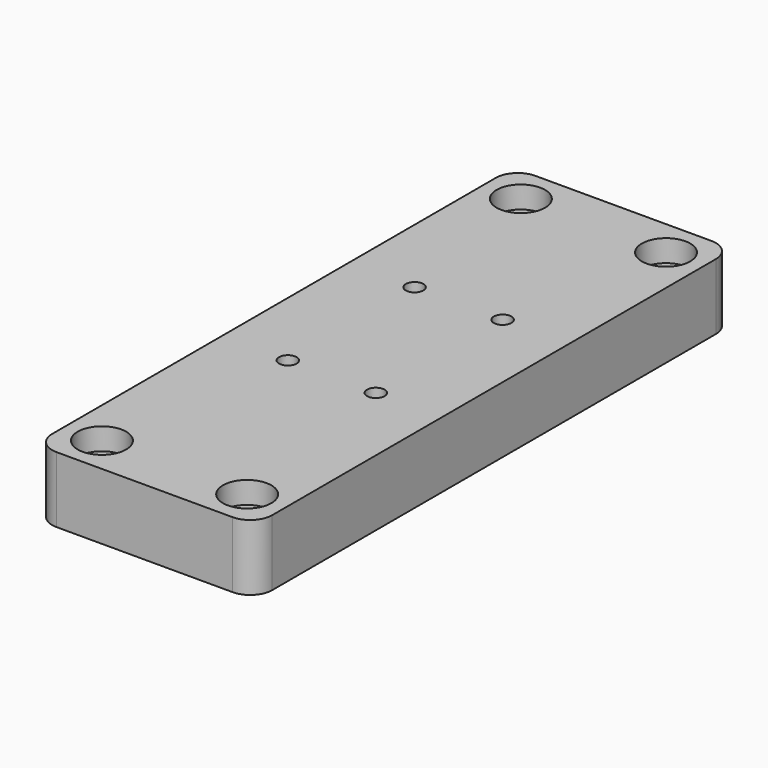
from build123d import *

# Parameters (mm, degrees)
SKETCH_W        = 50
SKETCH_H        = 136
PAD_DEPTH       = 15
SKETCH001_R     = 2.75
POCKET_DEPTH    = 15.001
SKETCH002_R     = 5.5
POCKET001_DEPTH = 5
SKETCH003_R     = 2
POCKET002_DEPTH = 15.001
FILLET_R        = 5


with BuildPart() as part:
    # Sketch → Pad (new body)
    with BuildSketch(Plane.XY):
        Rectangle(SKETCH_W, SKETCH_H)
    extrude(amount=PAD_DEPTH)

    # Sketch001 (on Face6 of Pad) → Pocket (cut, through all)
    with BuildSketch(Plane.XY.offset(15)):
        with Locations((-16.5, 59.5)):
            Circle(SKETCH001_R)
        with Locations((16.5, 59.5)):
            Circle(SKETCH001_R)
        with Locations((16.5, -59.5)):
            Circle(SKETCH001_R)
        with Locations((-16.5, -59.5)):
            Circle(SKETCH001_R)
    extrude(amount=-POCKET_DEPTH, mode=Mode.SUBTRACT)

    # Sketch002 (on Face5 of Pocket) → Pocket001 (cut)
    with BuildSketch(Plane.XY.offset(15)):
        with Locations((-16.5, -59.5)):
            Circle(SKETCH002_R)
        with Locations((16.5, -59.5)):
            Circle(SKETCH002_R)
        with Locations((16.5, 59.5)):
            Circle(SKETCH002_R)
        with Locations((-16.5, 59.5)):
            Circle(SKETCH002_R)
    extrude(amount=-POCKET001_DEPTH, mode=Mode.SUBTRACT)

    # Sketch003 (on Face5 of Pocket001) → Pocket002 (cut, through all)
    with BuildSketch(Plane.XY.offset(15)):
        with Locations((10, 21.18)):
            Circle(SKETCH003_R)
        with Locations((-10, 21.18)):
            Circle(SKETCH003_R)
        with Locations((10, -14.82)):
            Circle(SKETCH003_R)
        with Locations((-10, -14.82)):
            Circle(SKETCH003_R)
    extrude(amount=-POCKET002_DEPTH, mode=Mode.SUBTRACT)

    # Fillet
    fillet_edges = [part.edges().sort_by_distance(p)[0] for p in [
        (-25, -68, 7.5),
        (-25, 68, 7.5),
        (25, 68, 7.5),
        (25, -68, 7.5),
    ]]
    fillet(fillet_edges, radius=FILLET_R)


solid = part.part
